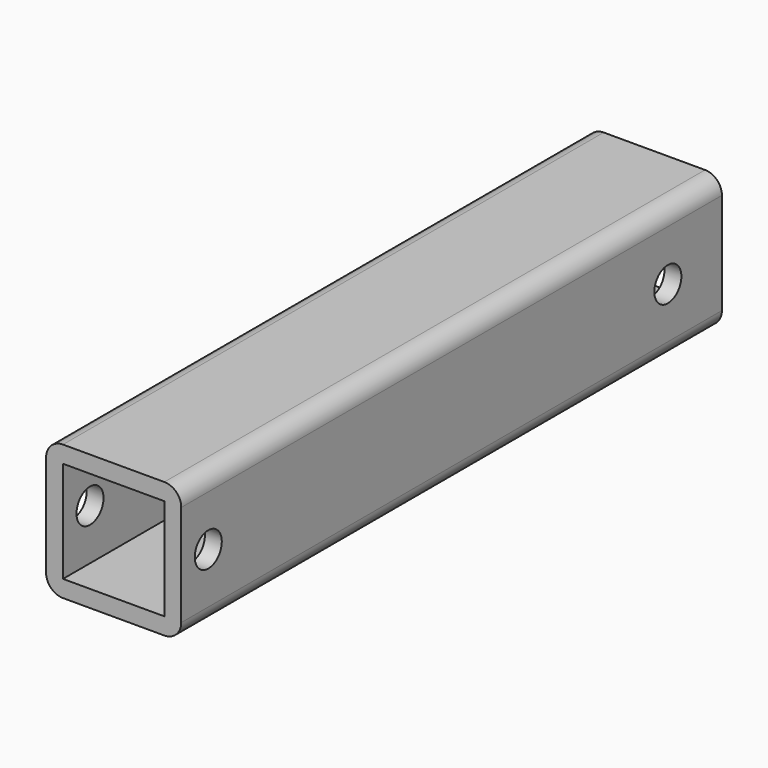
from build123d import *

# Parameters (mm, degrees)
F0_W     = 38.1
F0_H     = 38.1
F4_DEPTH = 254
F6_D     = 12.7
F6_DEPTH = 25.401
F1_D     = 12.7
F3_D     = 6.35
F3_DEPTH = 25.401


with BuildPart() as f4:
    # F0 (on Front) → F4 (new body)
    with BuildSketch(Plane.XZ):
        with BuildLine():
            Line((-19.05, -25.4), (19.05, -25.4))
            ThreePointArc((19.05, -25.4), (23.5401280605, -23.5401280605), (25.4, -19.05))
            Line((25.4, -19.05), (25.4, 19.05))
            ThreePointArc((25.4, 19.05), (23.5401280605, 23.5401280605), (19.05, 25.4))
            Line((19.05, 25.4), (-19.05, 25.4))
            ThreePointArc((-19.05, 25.4), (-23.5401280605, 23.5401280605), (-25.4, 19.05))
            Line((-25.4, 19.05), (-25.4, -19.05))
            ThreePointArc((-25.4, -19.05), (-23.5401280605, -23.5401280605), (-19.05, -25.4))
        make_face()
        Rectangle(F0_W, F0_H, mode=Mode.SUBTRACT)
    extrude(amount=-F4_DEPTH)

    # F6 (through all, one way)
    with BuildSketch(Plane(origin=(0, 0, 0), x_dir=(0, 1, 0), z_dir=(-1, 0, 0))):
        with Locations((12.7, 0), (228.6, 0)):
            Circle(F6_D / 2)
    extrude(amount=-F6_DEPTH, mode=Mode.SUBTRACT)

    # F1 (through all)
    with Locations(Plane.YZ):
        with Locations((12.7, 0), (228.6, 0)):
            Hole(F1_D / 2)

    # F3 (through all, one way)
    with BuildSketch(Plane.XY):
        with Locations((0, 171.45), (0, 152.4)):
            Circle(F3_D / 2)
    extrude(amount=-F3_DEPTH, mode=Mode.SUBTRACT)


solid = f4.part
